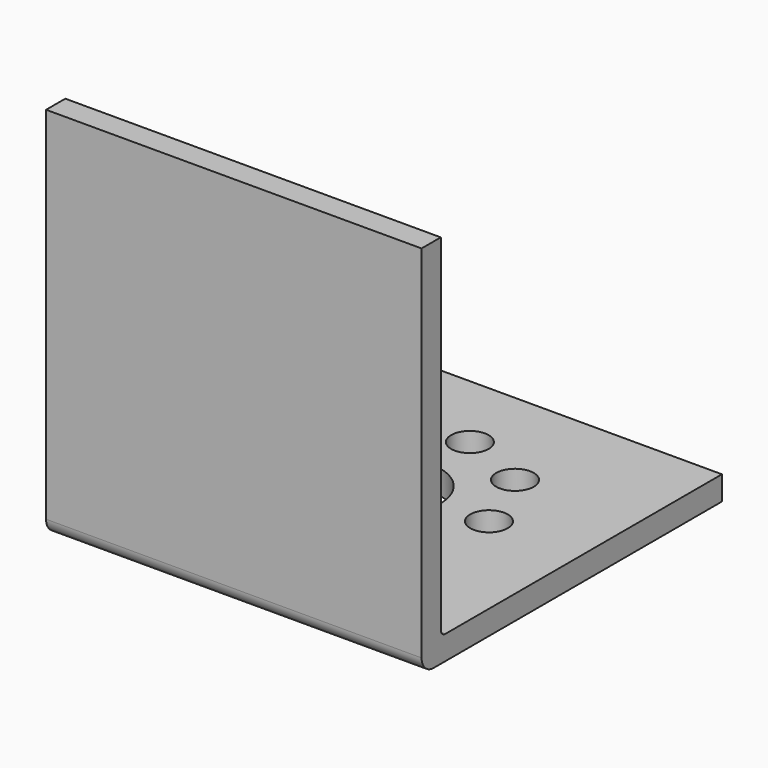
from build123d import *

# Parameters (mm, degrees)
F0_W     = 31.75
F0_H     = 31.75
F1_DEPTH = 2.032
F2_W     = 31.75
F2_H     = 31.75
F3_DEPTH = 2.032
F4_R     = 0.508
F5_R     = 1.27
F6_R     = 1.5875
F6_R_2   = 3.96875
F7_DEPTH = 25.4


with BuildPart() as f1:
    # F0 (on Top) → F1 (new body)
    with BuildSketch(Plane.XY):
        with Locations((-14.342583, -18.160402)):
            Rectangle(F0_W, F0_H)
    extrude(amount=F1_DEPTH)

    # F2 (on face) → F3 (join)
    with BuildSketch(Plane.XZ.offset(34.035402)):
        with Locations((-14.342583, 15.875)):
            Rectangle(F2_W, F2_H)
    extrude(amount=-F3_DEPTH)

    # F4
    f4_edges = [f1.edges().sort_by_distance(p)[0] for p in [
        (-14.342583, -32.003402, 2.032),
    ]]
    fillet(f4_edges, radius=F4_R)

    # F5
    f5_edges = [f1.edges().sort_by_distance(p)[0] for p in [
        (-14.342583, -34.035402, 0),
    ]]
    fillet(f5_edges, radius=F5_R)

    # F6 (on face) → F7 (cut)
    with BuildSketch(Plane.XY.offset(2.032)):
        with Locations((-14.342583, -9.079902)):
            Circle(F6_R)
        with Locations((-20.045045, -11.441939)):
            Circle(F6_R)
        with Locations((-22.407083, -17.144402)):
            Circle(F6_R)
        with Locations((-20.045045, -22.846864)):
            Circle(F6_R)
        with Locations((-14.342583, -25.208902)):
            Circle(F6_R)
        with Locations((-8.64012, -22.846864)):
            Circle(F6_R)
        with Locations((-6.278083, -17.144402)):
            Circle(F6_R)
        with Locations((-8.64012, -11.441939)):
            Circle(F6_R)
        with Locations((-14.342583, -17.144402)):
            Circle(F6_R_2)
    extrude(amount=-F7_DEPTH, mode=Mode.SUBTRACT)


solid = f1.part
